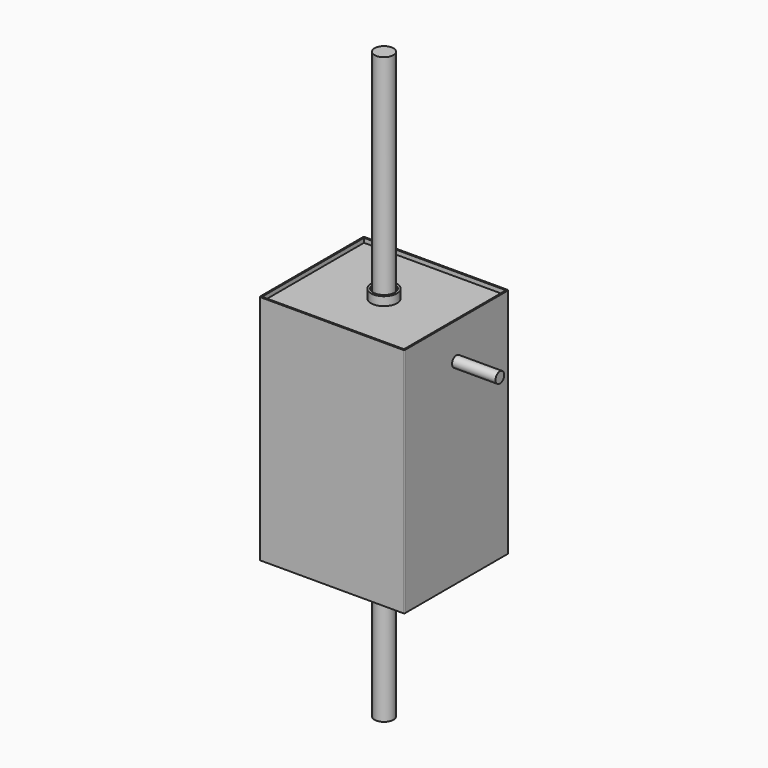
from build123d import *

# Parameters (mm, degrees)
F0_W      = 254
F0_H      = 406.4
F1_DEPTH  = 228.6
F2_W      = 248.92
F2_H      = 223.52
F3_DEPTH  = 7.62
F4_W      = 248.92
F4_H      = 223.52
F5_DEPTH  = 7.62
F6_R      = 22.86
F6_R_2    = 20.32
F7_DEPTH  = 15.24
F8_R      = 16.51
F9_DEPTH  = 254
F10_R     = 1.778
F11_R     = 22.86
F11_R_2   = 19.05
F12_DEPTH = 15.24
F13_R     = 16.51
F14_DEPTH = 381
F15_R     = 9.525
F16_DEPTH = 76.2


with BuildPart() as f1:
    # F0 (on Front) → F1 (new body)
    with BuildSketch(Plane.XZ):
        with Locations((127, 203.2)):
            Rectangle(F0_W, F0_H)
    extrude(amount=F1_DEPTH)

    # F2 (on face) → F3 (cut)
    with BuildSketch(Plane.XY.offset(406.4)):
        with Locations((127, -114.3)):
            Rectangle(F2_W, F2_H)
    extrude(amount=-F3_DEPTH, mode=Mode.SUBTRACT)

    # F4 (on face) → F5 (cut)
    with BuildSketch(Plane(origin=(0, 0, 0), x_dir=(1, 0, 0), z_dir=(0, 0, -1))):
        with Locations((127, 114.3)):
            Rectangle(F4_W, F4_H)
    extrude(amount=-F5_DEPTH, mode=Mode.SUBTRACT)

    # F10
    f10_edges = [f1.edges().sort_by_distance(p)[0] for p in [
        (0, -228.6, 203.2),
        (0, 0, 203.2),
        (254, -228.6, 203.2),
        (254, 0, 203.2),
    ]]
    fillet(f10_edges, radius=F10_R)

    # F15 (on face) → F16 (join)
    with BuildSketch(Plane.YZ.offset(254)):
        with Locations((-114.3, 342.9)):
            Circle(F15_R)
    extrude(amount=F16_DEPTH)


with BuildPart() as f7:
    # F6 (on face) → F7 (new body)
    with BuildSketch(Plane(origin=(0, 0, 7.62), x_dir=(1, 0, 0), z_dir=(0, 0, -1))):
        with Locations((127, 114.3)):
            Circle(F6_R)
        with Locations((127, 114.3)):
            Circle(F6_R_2, mode=Mode.SUBTRACT)
    extrude(amount=F7_DEPTH)


with BuildPart() as f9:
    # F8 (on face) → F9 (new body)
    with BuildSketch(Plane(origin=(0, 0, 7.62), x_dir=(1, 0, 0), z_dir=(0, 0, -1))):
        with Locations((127, 114.3)):
            Circle(F8_R)
    extrude(amount=F9_DEPTH)


with BuildPart() as f12:
    # F11 (on face) → F12 (new body)
    with BuildSketch(Plane.XY.offset(398.78)):
        with Locations((127, -114.3)):
            Circle(F11_R)
        with Locations((127, -114.3)):
            Circle(F11_R_2, mode=Mode.SUBTRACT)
    extrude(amount=F12_DEPTH)


with BuildPart() as f14:
    # F13 (on face) → F14 (new body)
    with BuildSketch(Plane.XY.offset(398.78)):
        with Locations((127, -114.3)):
            Circle(F13_R)
    extrude(amount=F14_DEPTH)


solid = Compound([f1.part, f7.part, f9.part, f12.part, f14.part])
